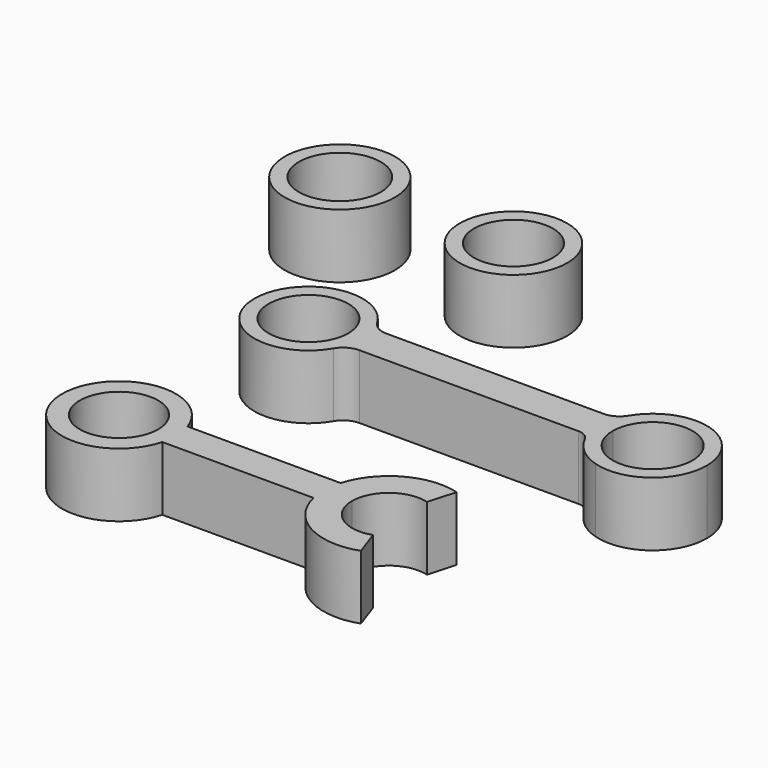
from build123d import *

# Parameters (mm, degrees)
F0_R     = 5.6
F1_DEPTH = 9
F0_R_2   = 5.5
F2_R     = 7.75
F2_R_2   = 5.75
F3_DEPTH = 9
F2_R_3   = 7.55
F2_R_4   = 5.55


with BuildPart() as f1:
    # F0 (on Top) → F1 (new body)
    with BuildSketch(Plane.XY):
        with BuildLine():
            ThreePointArc((-25.6589871965, 23.6674857575), (-25.3710249477, 24.845867098), (-25.2742154187, 26.0550539139))
            ThreePointArc((-25.2742154187, 26.0550539139), (-25.3853205074, 27.3498330484), (-25.7153872627, 28.6067551958))
            ThreePointArc((-25.7153872627, 28.6067551958), (-26.0000307004, 29.2962858493), (-26.3509017676, 29.9545896567))
            ThreePointArc((-26.3509017676, 29.9545896567), (-40.474067426, 26.007625361), (-26.3027399391, 22.2372390912))
            ThreePointArc((-26.3027399391, 22.2372390912), (-25.9438690261, 22.9357112143), (-25.6589871965, 23.6674857575))
        make_face()
        with Locations((-32.8742154187, 26.0550539139)):
            Circle(F0_R, mode=Mode.SUBTRACT)
        with BuildLine():
            Line((7.861747735, 26.0550539139), (-25.2742154187, 26.0550539139))
            ThreePointArc((-25.2742154187, 26.0550539139), (-25.3710249477, 24.845867098), (-25.6589871965, 23.6674857575))
            Line((-25.6589871965, 23.6674857575), (-23.8177132642, 23.6674857575))
            Line((-23.8177132642, 23.6674857575), (6.9932735761, 23.6674857575))
            Line((6.9932735761, 23.6674857575), (8.2465195128, 23.6674857575))
            ThreePointArc((8.2465195128, 23.6674857575), (7.958557264, 24.845867098), (7.861747735, 26.0550539139))
        make_face()
        with BuildLine():
            ThreePointArc((-25.7153872627, 28.6067551958), (-25.3853205074, 27.3498330484), (-25.2742154187, 26.0550539139))
            Line((-25.2742154187, 26.0550539139), (7.861747735, 26.0550539139))
            ThreePointArc((7.861747735, 26.0550539139), (7.9728528237, 27.3498330484), (8.3029195789, 28.6067551958))
            Line((8.3029195789, 28.6067551958), (6.5379139452, 28.6067551958))
            Line((6.5379139452, 28.6067551958), (-23.9748898894, 28.6067551958))
            Line((-23.9748898894, 28.6067551958), (-25.7153872627, 28.6067551958))
        make_face()
        with BuildLine():
            Line((9.861747735, 26.0550539139), (7.861747735, 26.0550539139))
            ThreePointArc((7.861747735, 26.0550539139), (7.958557264, 24.845867098), (8.2465195128, 23.6674857575))
            ThreePointArc((8.2465195128, 23.6674857575), (8.4424045926, 23.1414956341), (8.6765748147, 22.6313967404))
            ThreePointArc((8.6765748147, 22.6313967404), (10.5754372974, 20.2340599861), (13.2655252622, 18.7792991867))
            Line((13.2655252622, 18.7792991867), (13.8434785445, 20.6939714834))
            ThreePointArc((13.8434785445, 20.6939714834), (10.9660660588, 22.7160651049), (9.861747735, 26.0550539139))
        make_face()
        with BuildLine():
            ThreePointArc((8.3029195789, 28.6067551958), (7.9728528237, 27.3498330484), (7.861747735, 26.0550539139))
            Line((7.861747735, 26.0550539139), (9.861747735, 26.0550539139))
            ThreePointArc((9.861747735, 26.0550539139), (12.9541525991, 31.0622454056), (18.816021533, 30.5393428528))
            Line((18.816021533, 30.5393428528), (20.0139764609, 32.1408746167))
            ThreePointArc((20.0139764609, 32.1408746167), (13.9987226688, 33.5129059945), (8.947650731, 29.9699664574))
            ThreePointArc((8.947650731, 29.9699664574), (8.5913906232, 29.304391255), (8.3029195789, 28.6067551958))
        make_face()
        with BuildLine():
            Line((20.0139764609, 32.1408746167), (18.816021533, 30.5393428528))
            ThreePointArc((18.816021533, 30.5393428528), (20.4689392267, 28.5626490498), (21.061747735, 26.0550539139))
            ThreePointArc((21.061747735, 26.0550539139), (18.800736544, 21.5593722377), (13.8434785445, 20.6939714834))
            Line((13.8434785445, 20.6939714834), (13.2655252622, 18.7792991867))
            ThreePointArc((13.2655252622, 18.7792991867), (19.9932325472, 19.9537716391), (23.061747735, 26.0550539139))
            ThreePointArc((23.061747735, 26.0550539139), (22.2572219023, 29.4582187412), (20.0139764609, 32.1408746167))
        make_face()
        with BuildLine():
            ThreePointArc((-26.3509017676, 29.9545896567), (-26.0000307004, 29.2962858493), (-25.7153872627, 28.6067551958))
            Line((-25.7153872627, 28.6067551958), (-23.9748898894, 28.6067551958))
            ThreePointArc((-23.9748898894, 28.6067551958), (-25.3407312216, 28.9671776918), (-26.3509017676, 29.9545896567))
        make_face()
        with BuildLine():
            Line((-23.8177132642, 23.6674857575), (-25.6589871965, 23.6674857575))
            ThreePointArc((-25.6589871965, 23.6674857575), (-25.9438690261, 22.9357112143), (-26.3027399391, 22.2372390912))
            ThreePointArc((-26.3027399391, 22.2372390912), (-25.2513243605, 23.2843911851), (-23.8177132642, 23.6674857575))
        make_face()
        with BuildLine():
            Line((6.5379139452, 28.6067551958), (8.3029195789, 28.6067551958))
            ThreePointArc((8.3029195789, 28.6067551958), (8.5913906232, 29.304391255), (8.947650731, 29.9699664574))
            ThreePointArc((8.947650731, 29.9699664574), (7.9222166861, 28.9711762777), (6.5379139452, 28.6067551958))
        make_face()
        with BuildLine():
            ThreePointArc((8.6765748147, 22.6313967404), (8.4424045926, 23.1414956341), (8.2465195128, 23.6674857575))
            Line((8.2465195128, 23.6674857575), (6.9932735761, 23.6674857575))
            ThreePointArc((6.9932735761, 23.6674857575), (7.9815781239, 23.3877052739), (8.6765748147, 22.6313967404))
        make_face()
    extrude(amount=F1_DEPTH)


with BuildPart() as f1b:
    # F0 (on Top) → F1, piece 2 (new body)
    with BuildSketch(Plane.XY):
        with BuildLine():
            ThreePointArc((-27.0758371224, -6.864185135), (-26.8725005831, -5.8398261755), (-26.8043345189, -4.7977079413))
            ThreePointArc((-26.8043345189, -4.7977079413), (-26.9091577828, -3.5069003239), (-27.2208805952, -2.2499193733))
            ThreePointArc((-27.2208805952, -2.2499193733), (-42.800385134, -5.0490534445), (-27.0758371224, -6.864185135))
        make_face()
        with Locations((-34.8043345189, -4.7977079413)):
            Circle(F0_R_2, mode=Mode.SUBTRACT)
        with BuildLine():
            ThreePointArc((-27.2208805952, -2.2499193733), (-26.9091577828, -3.5069003239), (-26.8043345189, -4.7977079413))
            Line((-26.8043345189, -4.7977079413), (-6.0729504156, -4.7977079413))
            ThreePointArc((-6.0729504156, -4.7977079413), (-5.9820544851, -3.5110348984), (-5.7111721829, -2.2499193733))
            Line((-5.7111721829, -2.2499193733), (-27.2208805952, -2.2499193733))
        make_face()
        with BuildLine():
            Line((-6.0729504156, -4.7977079413), (-26.8043345189, -4.7977079413))
            ThreePointArc((-26.8043345189, -4.7977079413), (-26.8725005831, -5.8398261755), (-27.0758371224, -6.864185135))
            Line((-27.0758371224, -6.864185135), (-5.8366026775, -6.864185135))
            ThreePointArc((-5.8366026775, -6.864185135), (-6.0136715053, -5.8376824897), (-6.0729504156, -4.7977079413))
        make_face()
        with BuildLine():
            Line((-2.0729504156, -4.7977079413), (-6.0729504156, -4.7977079413))
            ThreePointArc((-6.0729504156, -4.7977079413), (-6.0136715053, -5.8376824897), (-5.8366026775, -6.864185135))
            ThreePointArc((-5.8366026775, -6.864185135), (-1.3415298691, -12.8113942196), (6.0866439305, -13.4416397683))
            Line((6.0866439305, -13.4416397683), (4.7722332653, -9.663766742))
            ThreePointArc((4.7722332653, -9.663766742), (0.0940766118, -8.9969658482), (-2.0729504156, -4.7977079413))
        make_face()
        with BuildLine():
            ThreePointArc((-5.7111721829, -2.2499193733), (-5.9820544851, -3.5110348984), (-6.0729504156, -4.7977079413))
            Line((-6.0729504156, -4.7977079413), (-2.0729504156, -4.7977079413))
            ThreePointArc((-2.0729504156, -4.7977079413), (-0.0280371107, -0.6879875201), (4.4834363629, 0.159408173))
            Line((4.4834363629, 0.159408173), (5.5736331269, 4.0079755709))
            ThreePointArc((5.5736331269, 4.0079755709), (-1.3592659448, 3.2061686063), (-5.7111721829, -2.2499193733))
        make_face()
    extrude(amount=F1_DEPTH)


with BuildPart() as f3:
    # F2 (on Top) → F3 (new body)
    with BuildSketch(Plane.XY):
        with Locations((-51.1972010136, 54.4579364359)):
            Circle(F2_R)
        with Locations((-51.1972010136, 54.4579364359)):
            Circle(F2_R_2, mode=Mode.SUBTRACT)
    extrude(amount=F3_DEPTH)


with BuildPart() as f3b:
    # F2 (on Top) → F3, piece 2 (new body)
    with BuildSketch(Plane.XY):
        with Locations((-26.5075825155, 54.0833212435)):
            Circle(F2_R_3)
        with Locations((-26.5075825155, 54.0833212435)):
            Circle(F2_R_4, mode=Mode.SUBTRACT)
    extrude(amount=F3_DEPTH)


solid = Compound([f1.part, f1b.part, f3.part, f3b.part])
